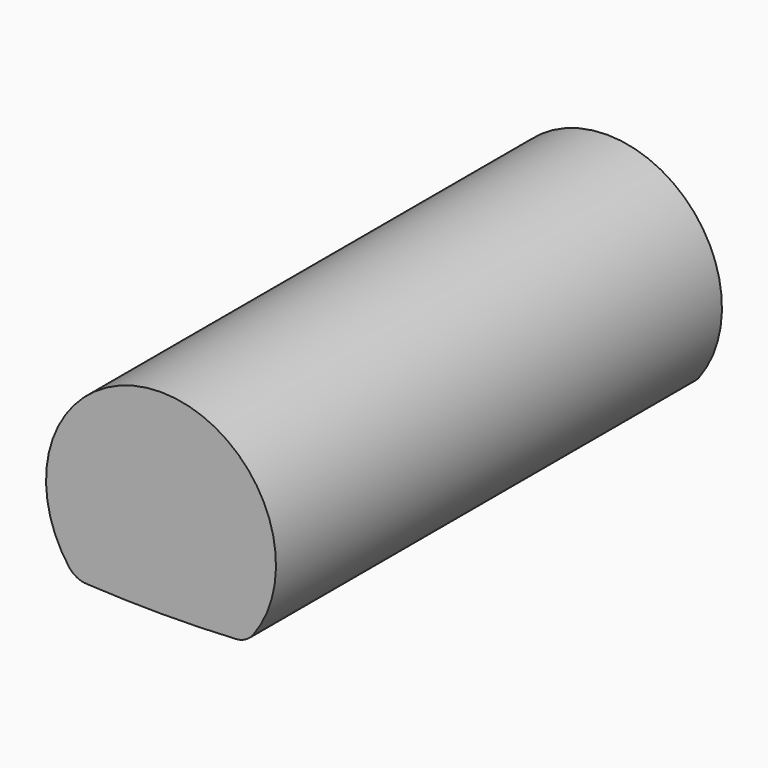
from build123d import *

# Parameters (mm, degrees)
CYLINDER001_R     = 19.452818
CYLINDER001_DEPTH = 8
CYLINDER_R        = 1.65
CYLINDER_DEPTH    = 8
FILLET002_R       = 0.33


with BuildPart() as obj1:
    # Cylinder001 → Cylinder001 (new body)
    with BuildSketch(Plane.XZ):
        Circle(CYLINDER001_R)
    extrude(amount=CYLINDER001_DEPTH)


with BuildPart() as pinion_tooth_with_dust_relief:
    # Cylinder → Cylinder (new body)
    with BuildSketch(Plane(origin=(0, 0, -18.302818), x_dir=(1, 0, 0), z_dir=(0, -1, 0))):
        Circle(CYLINDER_R)
    extrude(amount=CYLINDER_DEPTH)

    # Common: intersect obj1
    add(obj1.part, mode=Mode.INTERSECT)

    # Fillet002
    fillet002_edges = [pinion_tooth_with_dust_relief.edges().sort_by_distance(p)[0] for p in [
        (-1.219222, -4, -19.414573),
        (1.219222, -4, -19.414573),
    ]]
    fillet(fillet002_edges, radius=FILLET002_R)


solid = pinion_tooth_with_dust_relief.part
